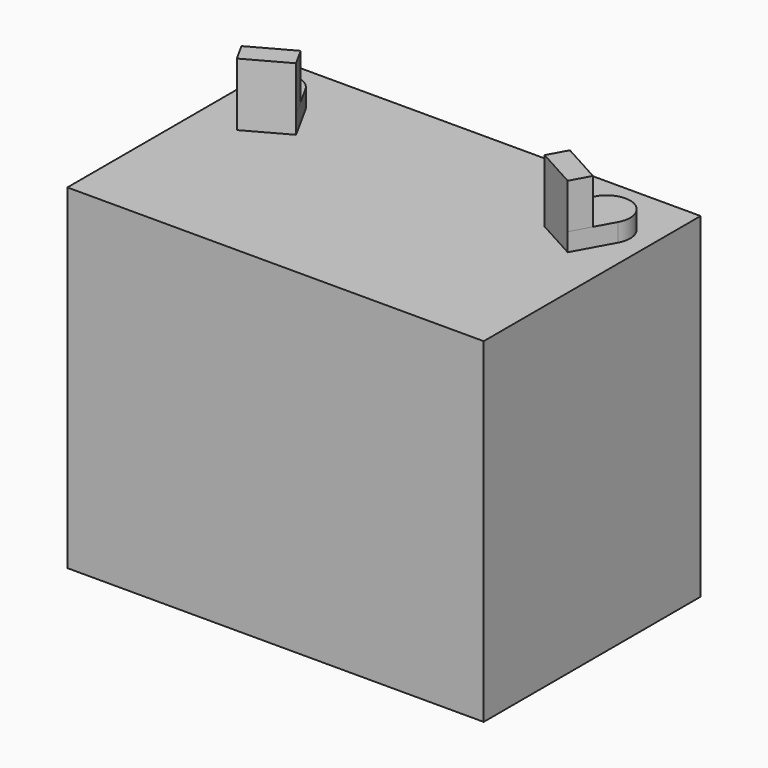
from build123d import *

# Parameters (mm, degrees)
SKETCH016_W  = 195
SKETCH016_H  = 127
PAD012_DEPTH = 157
PAD013_DEPTH = 8.5
PAD014_DEPTH = 21


with BuildPart() as part:
    # Sketch016 → Pad012 (new body)
    with BuildSketch(Plane.XY):
        with Locations((97.5, -63.5)):
            Rectangle(SKETCH016_W, SKETCH016_H)
    extrude(amount=PAD012_DEPTH)

    # Sketch017 (on Face6 of Pad012) → Pad013 (join)
    with BuildSketch(Plane.XY.offset(157)):
        with BuildLine():
            ThreePointArc((29.6383749954, -24.6988937525), (14.6988937525, -20.3616250046), (10.3616250046, -35.3011062475))
            Line((10.3616250046, -35.3011062475), (20, -52.825424421))
            Line((20, -52.825424421), (39.2767499909, -42.223211926))
            Line((39.2767499909, -42.223211926), (29.6383749954, -24.6988937525))
        make_face()
        with BuildLine():
            Line((175, -52.825424421), (184.6383749954, -35.3011062475))
            ThreePointArc((184.6383749954, -35.3011062475), (180.3011062475, -20.3616250046), (165.3616250046, -24.6988937525))
            Line((165.3616250046, -24.6988937525), (155.7232500091, -42.223211926))
            Line((155.7232500091, -42.223211926), (175, -52.825424421))
        make_face()
    extrude(amount=PAD013_DEPTH)

    # Sketch018 (on Face15 of Pad013) → Pad014 (join)
    with BuildSketch(Plane.XY.offset(165.5)):
        Polygon((20, -52.825424421), (39.2767499909, -42.223211926), (34.4575624932, -33.4610528393), (15.1808125023, -44.0632653343), align=None)
        Polygon((155.7232500091, -42.223211926), (175, -52.825424421), (179.8191874977, -44.0632653343), (160.5424375068, -33.4610528393), align=None)
    extrude(amount=PAD014_DEPTH)


with BuildPart() as part_1:
    # Body005 placement: moved
    add(part.part.moved(Location((0, 485, 0))))


solid = part_1.part
